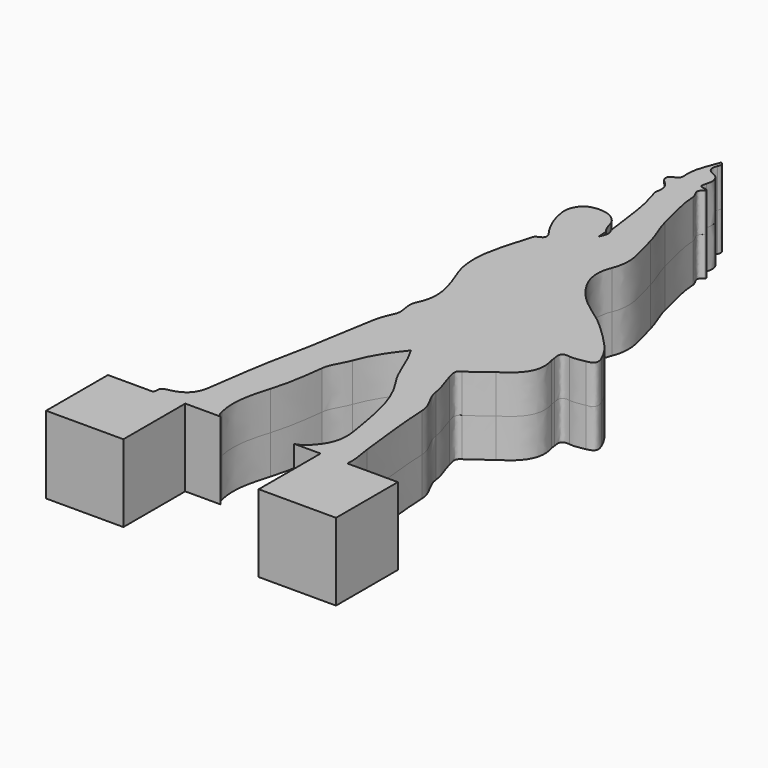
from build123d import *

# Parameters (mm, degrees)
F1_DEPTH = 2


with BuildPart() as f1:
    # F0 (on Top) → F1 (new body, symmetric)
    with BuildSketch(Plane.XY):
        with BuildLine():
            add(Edge.make_bspline(
                [(-2.686003, -15.005867), (-2.809383, -14.958071), (-2.85807, -14.84803), (-2.908088, -14.636841)],
                knots=[0, 0, 0, 0, 1, 1, 1, 1], degree=3))
            add(Edge.make_bspline(
                [(-2.908088, -14.636841), (-3.141504, -13.655366), (-2.911423, -12.757259), (-2.626873, -11.834026)],
                knots=[0, 0, 0, 0, 1, 1, 1, 1], degree=3))
            add(Edge.make_bspline(
                [(-2.626873, -11.834026), (-2.356329, -10.957038), (-2.238952, -10.038472), (-2.127796, -9.126331)],
                knots=[0, 0, 0, 0, 1, 1, 1, 1], degree=3))
            add(Edge.make_bspline(
                [(-2.127796, -9.126331), (-2.068888, -8.643963), (-1.746101, -8.282699), (-1.590487, -7.841419)],
                knots=[0, 0, 0, 0, 1, 1, 1, 1], degree=3))
            add(Edge.make_bspline(
                [(-1.590487, -7.841419), (-1.315498, -7.061127), (-0.857549, -6.360907), (-0.295143, -5.680208)],
                knots=[0, 0, 0, 0, 1, 1, 1, 1], degree=3))
            add(Edge.make_bspline(
                [(-0.295143, -5.680208), (0.227291, -6.513198), (0.421353, -7.463537), (0.972241, -8.256691)],
                knots=[0, 0, 0, 0, 1, 1, 1, 1], degree=3))
            add(Edge.make_bspline(
                [(0.972241, -8.256691), (1.876768, -9.556519), (2.055294, -11.098198), (2.317649, -12.615428)],
                knots=[0, 0, 0, 0, 1, 1, 1, 1], degree=3))
            add(Edge.make_bspline(
                [(2.317649, -12.615428), (2.463225, -13.457962), (2.295397, -14.069966), (1.672917, -14.692862)],
                knots=[0, 0, 0, 0, 1, 1, 1, 1], degree=3))
            add(Edge.make_bspline(
                [(1.672917, -14.692862), (1.473959, -14.890713), (1.309034, -14.971409), (1.123167, -15.005867)],
                knots=[0, 0, 0, 0, 1, 1, 1, 1], degree=3))
            Line((1.123167, -15.005867), (2.488176696, -15.005867))
            Line((2.488176696, -15.005867), (3.89377, -15.005867))
            add(Edge.make_bspline(
                [(3.89377, -15.005867), (3.880851, -14.978523), (3.873737, -14.943621), (3.878631, -14.889601)],
                knots=[0, 0, 0, 0, 1, 1, 1, 1], degree=3))
            add(Edge.make_bspline(
                [(3.878631, -14.889601), (3.92268, -14.439435), (3.785925, -14.016613), (3.739942, -13.580227)],
                knots=[0, 0, 0, 0, 1, 1, 1, 1], degree=3))
            add(Edge.make_bspline(
                [(3.739942, -13.580227), (3.594765, -12.225282), (3.40093, -10.871002), (3.348686, -9.511611)],
                knots=[0, 0, 0, 0, 1, 1, 1, 1], degree=3))
            add(Edge.make_bspline(
                [(3.348686, -9.511611), (3.32467, -8.874732), (2.83183, -8.489452), (2.764449, -7.894345)],
                knots=[0, 0, 0, 0, 1, 1, 1, 1], degree=3))
            add(Edge.make_bspline(
                [(2.764449, -7.894345), (2.712206, -7.423529), (2.480582, -6.975136), (2.362779, -6.508304)],
                knots=[0, 0, 0, 0, 1, 1, 1, 1], degree=3))
            add(Edge.make_bspline(
                [(2.362779, -6.508304), (2.304275, -6.278217), (2.156025, -5.986326), (2.467664, -5.818043)],
                knots=[0, 0, 0, 0, 1, 1, 1, 1], degree=3))
            add(Edge.make_bspline(
                [(2.467664, -5.818043), (2.875594, -5.599054), (3.189737, -5.257822), (3.575871, -5.014418)],
                knots=[0, 0, 0, 0, 1, 1, 1, 1], degree=3))
            add(Edge.make_bspline(
                [(3.575871, -5.014418), (4.387748, -4.503538), (4.999302, -3.898415), (4.688061, -2.820711)],
                knots=[0, 0, 0, 0, 1, 1, 1, 1], degree=3))
            add(Edge.make_bspline(
                [(4.688061, -2.820711), (4.664045, -2.73842), (4.664045, -2.650608), (4.648907, -2.566153)],
                knots=[0, 0, 0, 0, 1, 1, 1, 1], degree=3))
            add(Edge.make_bspline(
                [(4.648907, -2.566153), (4.598884, -2.269368), (4.576916, -2.031541), (5.025708, -2.089305)],
                knots=[0, 0, 0, 0, 1, 1, 1, 1], degree=3))
            add(Edge.make_bspline(
                [(5.025708, -2.089305), (5.288746, -2.124418), (5.568799, -2.058175), (5.83713, -2.00929)],
                knots=[0, 0, 0, 0, 1, 1, 1, 1], degree=3))
            add(Edge.make_bspline(
                [(5.83713, -2.00929), (6.173923, -1.94703), (6.320238, -1.823194), (6.146378, -1.416402)],
                knots=[0, 0, 0, 0, 1, 1, 1, 1], degree=3))
            add(Edge.make_bspline(
                [(6.146378, -1.416402), (5.770033, -0.528266), (5.047049, 0.041915), (4.395487, 0.685509)],
                knots=[0, 0, 0, 0, 1, 1, 1, 1], degree=3))
            add(Edge.make_bspline(
                [(4.395487, 0.685509), (3.737723, 1.336388), (2.878269, 1.734758), (2.25539, 2.431677)],
                knots=[0, 0, 0, 0, 1, 1, 1, 1], degree=3))
            add(Edge.make_bspline(
                [(2.25539, 2.431677), (1.585104, 3.185278), (1.126752, 4.024073), (1.534682, 5.028875)],
                knots=[0, 0, 0, 0, 1, 1, 1, 1], degree=3))
            add(Edge.make_bspline(
                [(1.534682, 5.028875), (1.944149, 6.04079), (1.492455, 6.925114), (1.274376, 7.843697)],
                knots=[0, 0, 0, 0, 1, 1, 1, 1], degree=3))
            add(Edge.make_bspline(
                [(1.274376, 7.843697), (1.139386, 8.408357), (0.843739, 8.935229), (0.714383, 9.499833)],
                knots=[0, 0, 0, 0, 1, 1, 1, 1], degree=3))
            add(Edge.make_bspline(
                [(0.714383, 9.499833), (0.529198, 10.303059), (0.258648, 11.093311), (0.222396, 11.923001)],
                knots=[0, 0, 0, 0, 1, 1, 1, 1], degree=3))
            add(Edge.make_bspline(
                [(0.222396, 11.923001), (0.210616, 12.159291), (-0.18929, 12.422044), (0.250624, 12.658789)],
                knots=[0, 0, 0, 0, 1, 1, 1, 1], degree=3))
            add(Edge.make_bspline(
                [(0.250624, 12.658789), (0.324663, 12.69948), (0.209705, 12.801747), (0.118593, 12.799527)],
                knots=[0, 0, 0, 0, 1, 1, 1, 1], degree=3))
            add(Edge.make_bspline(
                [(0.118593, 12.799527), (-0.184851, 12.793324), (-0.154404, 12.942257), (-0.086169, 13.163409)],
                knots=[0, 0, 0, 0, 1, 1, 1, 1], degree=3))
            add(Edge.make_bspline(
                [(-0.086169, 13.163409), (0.025659, 13.540267), (-0.02169, 13.860385), (-0.454092, 14.030432)],
                knots=[0, 0, 0, 0, 1, 1, 1, 1], degree=3))
            add(Edge.make_bspline(
                [(-0.454092, 14.030432), (-0.730617, 14.139358), (-0.826875, 14.351233), (-0.693045, 14.6491)],
                knots=[0, 0, 0, 0, 1, 1, 1, 1], degree=3))
            add(Edge.make_bspline(
                [(-0.693045, 14.6491), (-0.652366, 14.738449), (-0.583004, 14.863593), (-0.776185, 15.005868)],
                knots=[0, 0, 0, 0, 1, 1, 1, 1], degree=3))
            add(Edge.make_bspline(
                [(-0.776185, 15.005868), (-0.975148, 14.434549), (-1.255475, 13.89658), (-1.226576, 13.318603)],
                knots=[0, 0, 0, 0, 1, 1, 1, 1], degree=3))
            add(Edge.make_bspline(
                [(-1.226576, 13.318603), (-1.212127, 13.056305), (-1.178112, 12.908908), (-1.429983, 12.808861)],
                knots=[0, 0, 0, 0, 1, 1, 1, 1], degree=3))
            add(Edge.make_bspline(
                [(-1.429983, 12.808861), (-1.794344, 12.663228), (-1.745657, 12.434279), (-1.507791, 12.238225)],
                knots=[0, 0, 0, 0, 1, 1, 1, 1], degree=3))
            add(Edge.make_bspline(
                [(-1.507791, 12.238225), (-1.235249, 12.012577), (-1.154107, 11.744019), (-1.227686, 11.422364)],
                knots=[0, 0, 0, 0, 1, 1, 1, 1], degree=3))
            add(Edge.make_bspline(
                [(-1.227686, 11.422364), (-1.257478, 11.292325), (-1.219906, 11.193814), (-1.181896, 11.081132)],
                knots=[0, 0, 0, 0, 1, 1, 1, 1], degree=3))
            add(Edge.make_bspline(
                [(-1.181896, 11.081132), (-0.788415, 9.936673), (-0.739729, 8.729557), (-0.550771, 7.548676)],
                knots=[0, 0, 0, 0, 1, 1, 1, 1], degree=3))
            add(Edge.make_bspline(
                [(-0.550771, 7.548676), (-0.399629, 7.356377), (-0.430531, 7.167436), (-0.598342, 6.830643)],
                knots=[0, 0, 0, 0, 1, 1, 1, 1], degree=3))
            add(Edge.make_bspline(
                [(-0.598342, 6.830643), (-0.616126, 7.100112), (-0.625243, 7.232371), (-0.635026, 7.363491)],
                knots=[0, 0, 0, 0, 1, 1, 1, 1], degree=3))
            add(Edge.make_bspline(
                [(-0.635026, 7.363491), (-0.807531, 7.542473), (-0.853549, 7.778763), (-0.928021, 8.003728)],
                knots=[0, 0, 0, 0, 1, 1, 1, 1], degree=3))
            add(Edge.make_bspline(
                [(-0.928021, 8.003728), (-1.105864, 8.5446), (-1.734321, 8.822491), (-2.405681, 8.66468)],
                knots=[0, 0, 0, 0, 1, 1, 1, 1], degree=3))
            add(Edge.make_bspline(
                [(-2.405681, 8.66468), (-2.853625, 8.560193), (-3.145954, 8.086645), (-3.075483, 7.546456)],
                knots=[0, 0, 0, 0, 1, 1, 1, 1], degree=3))
            add(Edge.make_bspline(
                [(-3.075483, 7.546456), (-3.000345, 6.982251), (-2.785373, 6.463859), (-2.482595, 5.985246)],
                knots=[0, 0, 0, 0, 1, 1, 1, 1], degree=3))
            add(Edge.make_bspline(
                [(-2.482595, 5.985246), (-2.308087, 5.710258), (-1.995082, 5.450122), (-2.562406, 5.256059)],
                knots=[0, 0, 0, 0, 1, 1, 1, 1], degree=3))
            add(Edge.make_bspline(
                [(-2.562406, 5.256059), (-2.630208, 5.232726), (-2.670887, 5.088915), (-2.695342, 4.993762)],
                knots=[0, 0, 0, 0, 1, 1, 1, 1], degree=3))
            add(Edge.make_bspline(
                [(-2.695342, 4.993762), (-2.815387, 4.536889), (-2.967217, 4.088951), (-3.084822, 3.631679)],
                knots=[0, 0, 0, 0, 1, 1, 1, 1], degree=3))
            add(Edge.make_bspline(
                [(-3.084822, 3.631679), (-3.328465, 2.676219), (-3.416055, 1.781424), (-3.069479, 0.82841)],
                knots=[0, 0, 0, 0, 1, 1, 1, 1], degree=3))
            add(Edge.make_bspline(
                [(-3.069479, 0.82841), (-2.709125, -0.160798), (-2.201824, -1.172315), (-2.748029, -2.256734)],
                knots=[0, 0, 0, 0, 1, 1, 1, 1], degree=3))
            add(Edge.make_bspline(
                [(-2.748029, -2.256734), (-2.972777, -2.70507), (-2.607086, -3.142594), (-2.806048, -3.581654)],
                knots=[0, 0, 0, 0, 1, 1, 1, 1], degree=3))
            add(Edge.make_bspline(
                [(-2.806048, -3.581654), (-2.945876, -3.888854), (-3.073923, -4.213013), (-3.137725, -4.543546)],
                knots=[0, 0, 0, 0, 1, 1, 1, 1], degree=3))
            add(Edge.make_bspline(
                [(-3.137725, -4.543546), (-3.431836, -6.049211), (-3.600568, -7.574227), (-3.934242, -9.075909)],
                knots=[0, 0, 0, 0, 1, 1, 1, 1], degree=3))
            add(Edge.make_bspline(
                [(-3.934242, -9.075909), (-4.249916, -10.481971), (-4.421977, -11.920279), (-4.634502, -13.349697)],
                knots=[0, 0, 0, 0, 1, 1, 1, 1], degree=3))
            add(Edge.make_bspline(
                [(-4.634502, -13.349697), (-4.723424, -13.947695), (-5.037316, -14.302716), (-5.614644, -14.455663)],
                knots=[0, 0, 0, 0, 1, 1, 1, 1], degree=3))
            add(Edge.make_bspline(
                [(-5.614644, -14.455663), (-5.80538, -14.506126), (-6.123943, -14.517908), (-6.120386, -14.726875)],
                knots=[0, 0, 0, 0, 1, 1, 1, 1], degree=3))
            add(Edge.make_bspline(
                [(-6.120386, -14.726875), (-6.117273, -14.890268), (-6.1584, -14.968075), (-6.219978, -15.005867)],
                knots=[0, 0, 0, 0, 1, 1, 1, 1], degree=3))
            Line((-6.219978, -15.005867), (-4.511823304, -15.005867))
            Line((-4.511823304, -15.005867), (-2.686003, -15.005867))
        make_face()
        Polygon((-4.511823304, -19.005867), (-4.511823304, -15.005867), (-6.219978, -15.005867), (-8.511823304, -15.005867), (-8.511823304, -19.005867), align=None)
        Polygon((3.89377, -15.005867), (2.488176696, -15.005867), (2.488176696, -19.005867), (6.488176696, -19.005867), (6.488176696, -15.005867), align=None)
    extrude(amount=F1_DEPTH, both=True)


solid = f1.part
